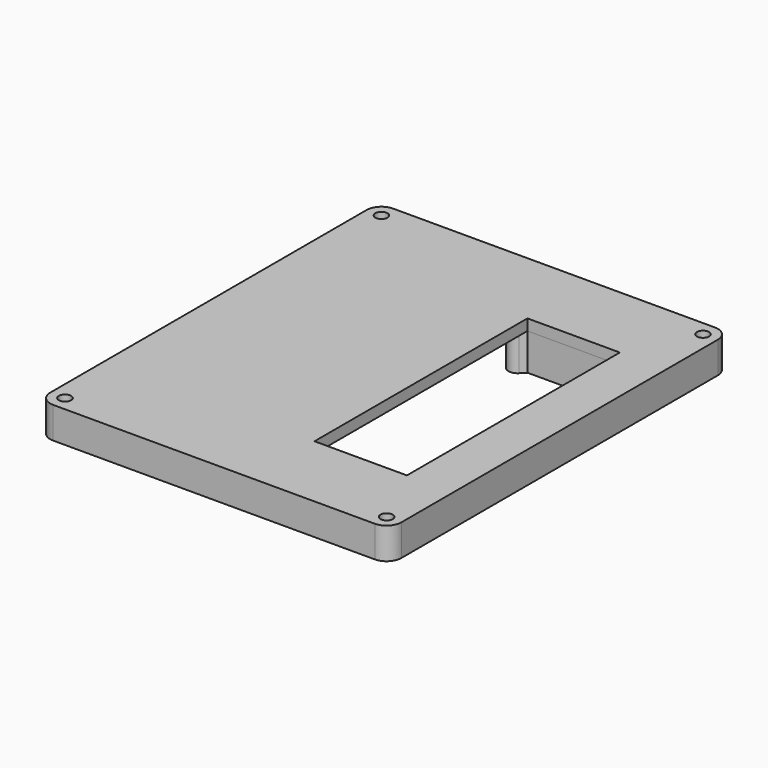
from build123d import *

# Parameters (mm, degrees)
SKETCH005_R             = 1.65
PAD001_DEPTH            = 8.5
POCKET001_DEPTH         = 5.5
SKETCH008_R             = 0.8
SKETCH011_W             = 25
SKETCH011_H             = 72
POCKET003_DEPTH         = 6
SKETCH012_R             = 1.05
PAD003_DEPTH            = 10
BODY001_PLACEMENT_ANGLE = 180


with BuildPart() as part:
    # Sketch005 → Pad001 (new body)
    with BuildSketch(Plane.XY):
        with BuildLine():
            Line((-47.5, 53.5), (-47.5, -53.5))
            ThreePointArc((-47.5, -53.5), (-46.328427, -56.328427), (-43.5, -57.5))
            Line((-43.5, -57.5), (43.5, -57.5))
            ThreePointArc((43.5, -57.5), (46.328427, -56.328427), (47.5, -53.5))
            Line((47.5, 53.5), (47.5, -53.5))
            ThreePointArc((47.5, 53.5), (46.328427, 56.328427), (43.5, 57.5))
            Line((-43.5, 57.5), (43.5, 57.5))
            ThreePointArc((-43.5, 57.5), (-46.328427, 56.328427), (-47.5, 53.5))
        make_face()
        with Locations((-43.5, 53.5)):
            Circle(SKETCH005_R, mode=Mode.SUBTRACT)
        with Locations((43.5, -53.5)):
            Circle(SKETCH005_R, mode=Mode.SUBTRACT)
        with Locations((-43.5, -53.5)):
            Circle(SKETCH005_R, mode=Mode.SUBTRACT)
        with Locations((43.5, 53.5)):
            Circle(SKETCH005_R, mode=Mode.SUBTRACT)
    extrude(amount=PAD001_DEPTH)

    # Sketch006 (on Face14 of Pad001) → Pocket001 (cut)
    with BuildSketch(Plane.XY.offset(8.5)):
        with BuildLine():
            ThreePointArc((-40.5, 46.5), (-37.671573, 47.671573), (-36.5, 50.5))
            Line((-36.5, 50.5), (-36.5, 54.5))
            Line((-36.5, 54.5), (36.5, 54.5))
            Line((36.5, 50.5), (36.5, 54.5))
            ThreePointArc((36.5, 50.5), (37.671573, 47.671573), (40.5, 46.5))
            Line((40.5, 46.5), (44.5, 46.5))
            Line((44.5, -46.5), (44.5, 46.5))
            Line((40.5, -46.5), (44.5, -46.5))
            ThreePointArc((40.5, -46.5), (37.671573, -47.671573), (36.5, -50.5))
            Line((36.5, -54.5), (36.5, -50.5))
            Line((-36.5, -54.5), (36.5, -54.5))
            Line((-36.5, -50.5), (-36.5, -54.5))
            ThreePointArc((-36.5, -50.5), (-37.671573, -47.671573), (-40.5, -46.5))
            Line((-40.5, -46.5), (-44.5, -46.5))
            Line((-44.5, 46.5), (-44.5, -46.5))
            Line((-40.5, 46.5), (-44.5, 46.5))
        make_face()
    extrude(amount=-POCKET001_DEPTH, mode=Mode.SUBTRACT)

    # SubtractivePipe001: sweep along a path in Sketch007
    with BuildLine(Plane.XY) as subtractivepipe001_path:
        ThreePointArc((42.585786, -49.757359), (40.792635, -50.792635), (39.757359, -52.585786))
        Line((39.757359, -52.585786), (39.239721, -54.517638))
        ThreePointArc((39.239721, -54.517638), (38.525392, -55.586707), (37.30787, -56))
        Line((37.30787, -56), (-37.30787, -56))
        ThreePointArc((-37.30787, -56), (-38.525392, -55.586707), (-39.239721, -54.517638))
        Line((-39.239721, -54.517638), (-39.757359, -52.585786))
        ThreePointArc((-39.757359, -52.585786), (-40.792635, -50.792635), (-42.585786, -49.757359))
        Line((-42.585786, -49.757359), (-44.517638, -49.239721))
        ThreePointArc((-44.517638, -49.239721), (-45.586707, -48.525392), (-46, -47.30787))
        Line((-46, -47.30787), (-46, 47.30787))
        ThreePointArc((-46, 47.30787), (-45.586707, 48.525392), (-44.517638, 49.239721))
        Line((-44.517638, 49.239721), (-42.585786, 49.757359))
        ThreePointArc((-42.585786, 49.757359), (-40.792635, 50.792635), (-39.757359, 52.585786))
        Line((-39.757359, 52.585786), (-39.239721, 54.517638))
        ThreePointArc((-39.239721, 54.517638), (-38.525392, 55.586707), (-37.30787, 56))
        Line((-37.30787, 56), (37.30787, 56))
        ThreePointArc((37.30787, 56), (38.525392, 55.586707), (39.239721, 54.517638))
        Line((39.239721, 54.517638), (39.757359, 52.585786))
        ThreePointArc((39.757359, 52.585786), (40.792635, 50.792635), (42.585786, 49.757359))
        Line((42.585786, 49.757359), (44.517638, 49.239721))
        ThreePointArc((44.517638, 49.239721), (45.586707, 48.525392), (46, 47.30787))
        Line((46, 47.30787), (46, -47.30787))
        ThreePointArc((46, -47.30787), (45.586707, -48.525392), (44.517638, -49.239721))
        Line((44.517638, -49.239721), (42.585786, -49.757359))
    # Sketch008 → SubtractivePipe001 (sweep, cut)
    with BuildSketch(Plane.XZ):
        with Locations((46, 8.5)):
            Circle(SKETCH008_R)
    sweep(path=subtractivepipe001_path.line, mode=Mode.SUBTRACT)

    # Sketch011 (on Face56 of SubtractivePipe001) → Pocket003 (cut)
    with BuildSketch(Plane.XY.offset(3)):
        with Locations((22.5, 0)):
            Rectangle(SKETCH011_W, SKETCH011_H)
    extrude(amount=-POCKET003_DEPTH, mode=Mode.SUBTRACT)

    # Sketch012 (on Face43 of Pocket003) → Pad003 (join)
    with BuildSketch(Plane.XY.offset(3)):
        with BuildLine():
            Line((5.5, 40), (39.5, 40))
            ThreePointArc((40.5, 39), (40.207107, 39.707107), (39.5, 40))
            Line((40.5, 39), (40.5, 36.5))
            ThreePointArc((36.317588, 34.767588), (38.987574, 34.236495), (40.5, 36.5))
            Line((36.317588, 34.767588), (35, 36.085177))
            Line((10, 36.085177), (35, 36.085177))
            Line((8.682412, 34.767588), (10, 36.085177))
            ThreePointArc((4.5, 36.5), (6.012426, 34.236495), (8.682412, 34.767588))
            Line((4.5, 39), (4.5, 36.5))
            ThreePointArc((5.5, 40), (4.792893, 39.707107), (4.5, 39))
        make_face()
        with Locations((38, 37.5)):
            Circle(SKETCH012_R, mode=Mode.SUBTRACT)
        with Locations((7, 37.5)):
            Circle(SKETCH012_R, mode=Mode.SUBTRACT)
        with BuildLine():
            Line((5.5, -40), (39.5, -40))
            ThreePointArc((39.5, -40), (40.207107, -39.707107), (40.5, -39))
            Line((40.5, -39), (40.5, -36.5))
            ThreePointArc((40.5, -36.5), (38.987574, -34.236495), (36.317588, -34.767588))
            Line((35, -36.085177), (36.317588, -34.767588))
            Line((10, -36.085177), (35, -36.085177))
            Line((8.682412, -34.767588), (10, -36.085177))
            ThreePointArc((8.682412, -34.767588), (6.012426, -34.236495), (4.5, -36.5))
            Line((4.5, -39), (4.5, -36.5))
            ThreePointArc((4.5, -39), (4.792893, -39.707107), (5.5, -40))
        make_face()
        with Locations((7, -37.5)):
            Circle(SKETCH012_R, mode=Mode.SUBTRACT)
        with Locations((38, -37.5)):
            Circle(SKETCH012_R, mode=Mode.SUBTRACT)
    extrude(amount=PAD003_DEPTH)


with BuildPart() as part_1:
    # Body001 placement: moved
    add(part.part.moved(Location((0, 0, 45.5))).rotate(Axis((0, 0, 45.5), (1, 0, 0)), BODY001_PLACEMENT_ANGLE))


solid = part_1.part
